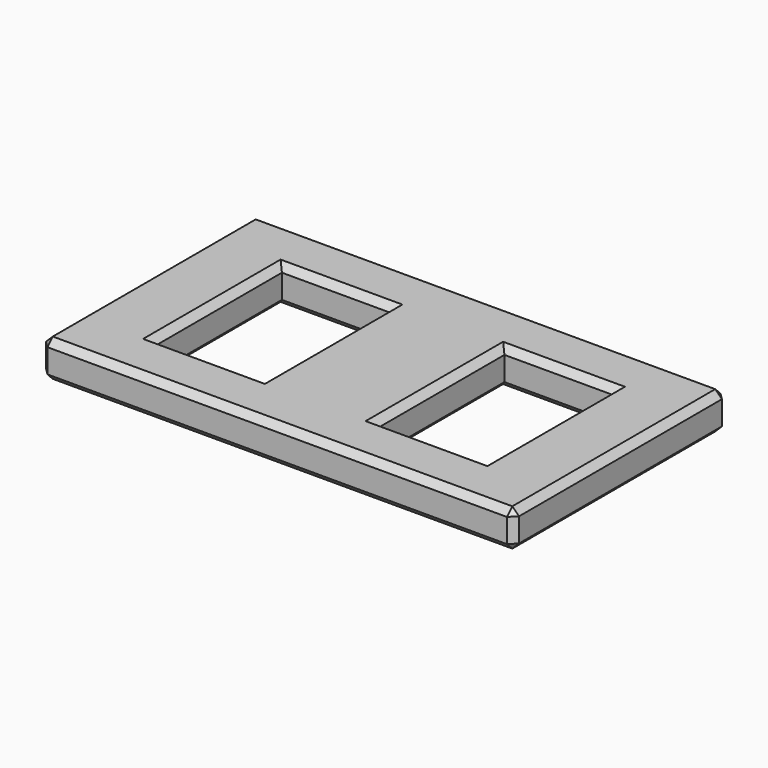
from build123d import *

# Parameters (mm, degrees)
F0_W     = 42.5
F0_H     = 48
F1_DEPTH = 6.7
F2_W     = 19.5
F2_H     = 28.5
F3_DEPTH = 25
F5_SIZE  = 1.2


with BuildPart() as f1:
    # F0 (on Top) → F1 (new body)
    with BuildSketch(Plane.XY):
        with Locations((21.25, 0)):
            Rectangle(F0_W, F0_H)
    extrude(amount=F1_DEPTH)

    # F2 (on face) → F3 (cut)
    with BuildSketch(Plane.XY.offset(6.7)):
        with Locations((20, 0)):
            Rectangle(F2_W, F2_H)
    extrude(amount=-F3_DEPTH, mode=Mode.SUBTRACT)

    # F4: F1 across plane


with BuildPart() as f1_1:
    add(f1.part)
    add(f1.part.mirror(Plane.YZ))

    # F5
    f5_edges = [f1_1.edges().sort_by_distance(p)[0] for p in [
        (0, 24, 6.7),
        (-42.5, 0, 6.7),
        (0, -24, 6.7),
        (42.5, 0, 0),
        (29.75, 0, 6.7),
        (10.25, 0, 6.7),
        (-10.25, 0, 6.7),
        (-29.75, 0, 6.7),
        (-20, 14.25, 6.7),
        (-20, -14.25, 6.7),
        (20, -14.25, 6.7),
        (20, 14.25, 6.7),
        (-42.5, -24, 3.35),
        (-42.5, 0, 0),
        (-42.5, 24, 3.35),
        (0, -24, 0),
        (-20, -14.25, 0),
        (-10.25, 0, 0),
        (-20, 14.25, 0),
        (-29.75, 0, 0),
        (10.25, 0, 0),
        (29.75, 0, 0),
        (20, 14.25, 0),
        (20, -14.25, 0),
        (42.5, 24, 3.35),
        (42.5, -24, 3.35),
        (42.5, 0, 6.7),
        (0, 24, 0),
    ]]
    chamfer(f5_edges, length=F5_SIZE)


solid = f1_1.part
